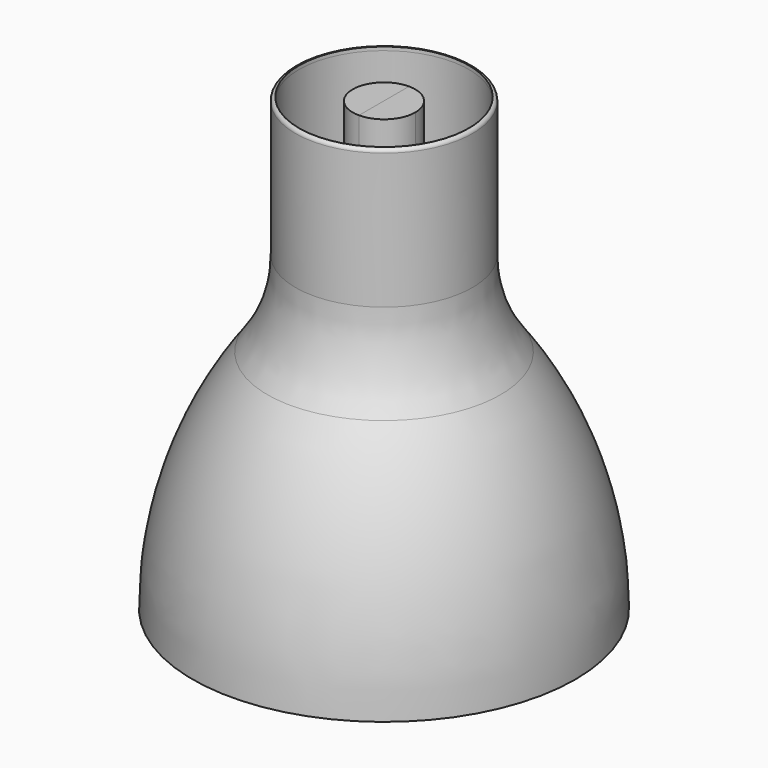
from build123d import *

# Parameters (mm, degrees)
F5_DEPTH = 250
F6_DEPTH = 2
F7_DEPTH = 250
F8_DEPTH = 2
F9_R     = 80


with BuildPart() as f1:
    # F0 (on Front) → F1 (revolve)
    with BuildSketch(Plane.XZ):
        with BuildLine():
            ThreePointArc((-105, 0), (-90.0976872134, 77.8078562871), (-47.5, 144.6029045351))
            Line((-47.5, 144.6029045351), (-47.5, 170.3248679638))
            Line((-47.5, 170.3248679638), (-47.5, 185.3248679638))
            Line((-47.5, 185.3248679638), (-47.5, 195.3248679638))
            Line((-47.5, 195.3248679638), (-47.5, 250))
            Line((-47.5, 250), (-48.5, 250))
            Line((-48.5, 250), (-48.5, 145))
            ThreePointArc((-48.5, 145), (-91.1003683497, 77.992387449), (-106, 0))
            Line((-106, 0), (-105, 0))
        make_face()
        Polygon((-47.5, 185.3248679638), (-47.5, 170.3248679638), (-32.5, 185.3248679638), align=None)
        Polygon((-47.5, 195.3248679638), (-47.5, 185.3248679638), (-32.5, 185.3248679638), (-21, 185.3248679638), (-21, 195.3248679638), align=None)
    revolve(axis=Axis((0, 0, 125), (0, 0, 1)))


with BuildPart() as f3:
    # F2 (on Front) → F3 (revolve)
    with BuildSketch(Plane.XZ):
        with BuildLine():
            ThreePointArc((-106, 0), (-91.1003683497, 77.992387449), (-48.5, 145))
            Line((-48.5, 145), (-48.5, 250))
            Line((-48.5, 250), (-47.5, 250))
            Line((-47.5, 250), (-47.5, 252))
            ThreePointArc((-47.5, 252), (-48.9142135624, 251.4142135624), (-49.5, 250))
            Line((-49.5, 250), (-49.5, 145.3960109494))
            ThreePointArc((-49.5, 145.3960109494), (-92.1030223235, 78.1764830368), (-107, 0))
            Line((-107, 0), (-106, 0))
        make_face()
    revolve(axis=Axis((0, 0, 125), (0, 0, 1)))

    # F9
    f9_edges = [f3.edges().sort_by_distance(p)[0] for p in [
        (49.5, 0, 145.396011),
    ]]
    fillet(f9_edges, radius=F9_R)


with BuildPart() as f5:
    # F4 (on face) → F5 (new body, through all)
    with BuildSketch(Plane(origin=(0, 0, 0), x_dir=(1, 0, 0), z_dir=(0, 0, -1))):
        with BuildLine():
            Line((0, -17.5), (0, 17.5))
            ThreePointArc((0, 17.5), (-17.5, 0), (0, -17.5))
        make_face()
    extrude(amount=-F5_DEPTH)

    # F4 (on face) → F6 (join)
    with BuildSketch(Plane(origin=(0, 0, 0), x_dir=(1, 0, 0), z_dir=(0, 0, -1))):
        with BuildLine():
            ThreePointArc((0, -17.5), (-17.5, 0), (0, 17.5))
            Line((0, 17.5), (0, 40))
            ThreePointArc((0, 40), (-40, 0), (0, -40))
            Line((0, -40), (0, -17.5))
        make_face()
    extrude(amount=-F6_DEPTH)


with BuildPart() as f7:
    # F4 (on face) → F7 (new body, through all)
    with BuildSketch(Plane(origin=(0, 0, 0), x_dir=(1, 0, 0), z_dir=(0, 0, -1))):
        with BuildLine():
            ThreePointArc((0, -17.5), (12.3743686708, -12.3743686708), (17.5, 0))
            ThreePointArc((17.5, 0), (12.3743686708, 12.3743686708), (0, 17.5))
            Line((0, 17.5), (0, -17.5))
        make_face()
    extrude(amount=-F7_DEPTH)

    # F4 (on face) → F8 (join)
    with BuildSketch(Plane(origin=(0, 0, 0), x_dir=(1, 0, 0), z_dir=(0, 0, -1))):
        with BuildLine():
            ThreePointArc((0, 17.5), (12.3743686708, 12.3743686708), (17.5, 0))
            ThreePointArc((17.5, 0), (12.3743686708, -12.3743686708), (0, -17.5))
            Line((0, -17.5), (0, -40))
            ThreePointArc((0, -40), (28.2842712475, -28.2842712475), (40, 0))
            ThreePointArc((40, 0), (28.2842712475, 28.2842712475), (0, 40))
            Line((0, 40), (0, 17.5))
        make_face()
    extrude(amount=-F8_DEPTH)


solid = Compound([f1.part, f3.part, f5.part, f7.part])
